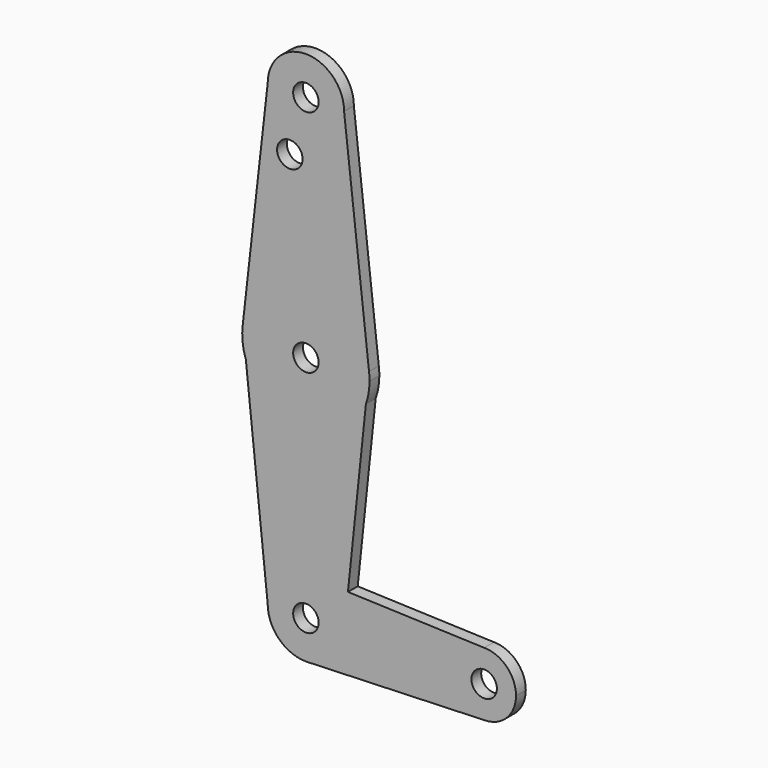
from build123d import *

# Parameters (mm, degrees)
F0_R     = 3.175
F1_DEPTH = 3.048


with BuildPart() as f1:
    # F0 (on Front) → F1 (new body)
    with BuildSketch(Plane.XZ):
        with BuildLine():
            Line((-31.3041994184, -68.747082913), (-31.1541879994, -68.7417229421))
            ThreePointArc((-31.1541879994, -68.7417229421), (-24.6889077009, -65.8125662941), (-22.0442983568, -59.2257727325))
            ThreePointArc((-22.0442983568, -59.2257727325), (-24.5980082503, -52.7352612541), (-30.8898079109, -49.7250402484))
            Line((-30.8898079109, -49.7250402484), (-31.5692983568, -49.7007727325))
            ThreePointArc((-31.5692983568, -49.7007727325), (-38.3044904476, -52.4905806417), (-41.0942983568, -59.2257727325))
            ThreePointArc((-41.0942983568, -59.2257727325), (-38.210102435, -66.0540482244), (-31.3041994184, -68.747082913))
        make_face()
        with Locations((-31.5692983568, -59.2257727325)):
            Circle(F0_R, mode=Mode.SUBTRACT)
        with BuildLine():
            ThreePointArc((-47.3095609525, -0.0118545125), (-47.3575653174, -3.7329544905), (-46.5379648901, -7.3629881824))
            Line((-46.5379648901, -7.3629881824), (-47.3095609525, -0.0118545125))
        make_face()
        with BuildLine():
            Line((-15.8290357611, -0.0118545125), (-16.6006318234, -7.3629881824))
            ThreePointArc((-16.6006318234, -7.3629881824), (-15.9225222317, -4.7579401194), (-15.6942983568, -2.0757727325))
            ThreePointArc((-15.6942983568, -2.0757727325), (-15.7280185204, -1.0416169673), (-15.8290357611, -0.0118545125))
        make_face()
        with BuildLine():
            ThreePointArc((13.1641309821, -67.158210823), (18.5926902036, -64.7373145255), (20.8182016432, -59.2257727325))
            ThreePointArc((20.8182016432, -59.2257727325), (18.4933617189, -53.6131126568), (12.8807016432, -51.2882727325))
            ThreePointArc((12.8807016432, -51.2882727325), (4.9444672215, -59.367510001), (13.1641309821, -67.158210823))
        make_face()
        with Locations((12.8807016432, -59.2257727325)):
            Circle(F0_R, mode=Mode.SUBTRACT)
        with BuildLine():
            ThreePointArc((-41.0942983568, 55.0742272675), (-31.5692983568, 45.5492272675), (-22.0442983568, 55.0742272675))
            ThreePointArc((-22.0442983568, 55.0742272675), (-31.5692983568, 64.5992272675), (-41.0942983568, 55.0742272675))
        make_face()
        with Locations((-31.5692983568, 55.0742272675)):
            Circle(F0_R, mode=Mode.SUBTRACT)
        with BuildLine():
            ThreePointArc((13.1641309821, -67.158210823), (4.9444672215, -59.367510001), (12.8807016432, -51.2882727325))
            Line((12.8807016432, -51.2882727325), (-21.0838336399, -50.0752536152))
            Line((-21.0838336399, -50.0752536152), (-22.0442983568, -59.2257727325))
            ThreePointArc((-22.0442983568, -59.2257727325), (-24.6889077009, -65.8125662941), (-31.1541879994, -68.7417229421))
            Line((-31.1541879994, -68.7417229421), (13.1641309821, -67.158210823))
        make_face()
        with BuildLine():
            Line((-22.0442983568, -59.2257727325), (-21.0838336399, -50.0752536152))
            Line((-21.0838336399, -50.0752536152), (-30.8898079109, -49.7250402484))
            ThreePointArc((-30.8898079109, -49.7250402484), (-24.5980082503, -52.7352612541), (-22.0442983568, -59.2257727325))
        make_face()
        with BuildLine():
            Line((-30.8898079109, -49.7250402484), (-21.0838336399, -50.0752536152))
            Line((-21.0838336399, -50.0752536152), (-16.6006318234, -7.3629881824))
            ThreePointArc((-16.6006318234, -7.3629881824), (-31.5692983568, -17.9507727325), (-46.5379648901, -7.3629881824))
            Line((-46.5379648901, -7.3629881824), (-41.0942983568, -59.2257727325))
            ThreePointArc((-41.0942983568, -59.2257727325), (-38.3044904476, -52.4905806417), (-31.5692983568, -49.7007727325))
            ThreePointArc((-31.5692983568, -49.7007727325), (-31.2293365286, -49.7068415448), (-30.8898079109, -49.7250402484))
        make_face()
        with BuildLine():
            ThreePointArc((-46.5379648901, -7.3629881824), (-31.5692983568, -17.9507727325), (-16.6006318234, -7.3629881824))
            Line((-16.6006318234, -7.3629881824), (-15.8290357611, -0.0118545125))
            ThreePointArc((-15.8290357611, -0.0118545125), (-31.5692983568, 13.7992272675), (-47.3095609525, -0.0118545125))
            Line((-47.3095609525, -0.0118545125), (-46.5379648901, -7.3629881824))
        make_face()
        with Locations((-31.5692983568, -2.0757727325)):
            Circle(F0_R, mode=Mode.SUBTRACT)
        with BuildLine():
            Line((-31.3041994184, -68.747082913), (-31.1541879994, -68.7417229421))
            ThreePointArc((-31.1541879994, -68.7417229421), (-24.6889077009, -65.8125662941), (-22.0442983568, -59.2257727325))
            ThreePointArc((-22.0442983568, -59.2257727325), (-24.5980082503, -52.7352612541), (-30.8898079109, -49.7250402484))
            Line((-30.8898079109, -49.7250402484), (-31.5692983568, -49.7007727325))
            ThreePointArc((-31.5692983568, -49.7007727325), (-38.3044904476, -52.4905806417), (-41.0942983568, -59.2257727325))
            ThreePointArc((-41.0942983568, -59.2257727325), (-38.210102435, -66.0540482244), (-31.3041994184, -68.747082913))
        make_face()
        with Locations((-31.5692983568, -59.2257727325)):
            Circle(F0_R, mode=Mode.SUBTRACT)
        with BuildLine():
            ThreePointArc((-47.3095609525, -0.0118545125), (-31.5692983568, 13.7992272675), (-15.8290357611, -0.0118545125))
            Line((-15.8290357611, -0.0118545125), (-15.8277914775, 0))
            Line((-15.8277914775, 0), (-22.0442983568, 55.0742272675))
            ThreePointArc((-22.0442983568, 55.0742272675), (-31.5692983568, 45.5492272675), (-41.0942983568, 55.0742272675))
            Line((-41.0942983568, 55.0742272675), (-47.3108052361, 0))
            Line((-47.3108052361, 0), (-47.3095609525, -0.0118545125))
        make_face()
        with Locations((-35.573463887, 41.2550084293)):
            Circle(F0_R, mode=Mode.SUBTRACT)
    extrude(amount=F1_DEPTH)


solid = f1.part
